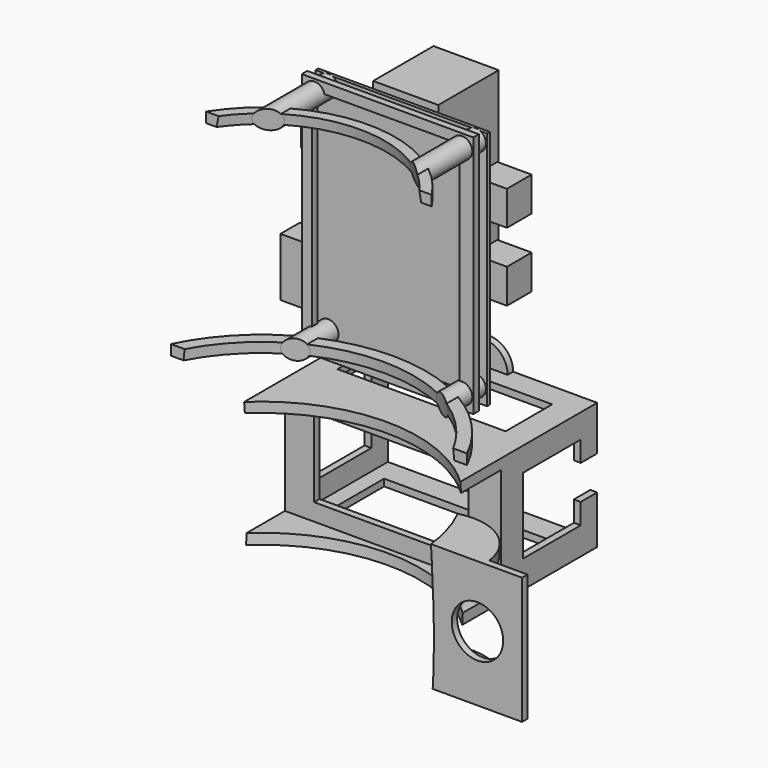
from build123d import *

# Parameters (mm, degrees)
BOX_W                     = 10
BOX_H                     = 9
BOX_DEPTH                 = 10
BOX001_W                  = 10
BOX001_H                  = 9
BOX001_DEPTH              = 10
BOX002_W                  = 10
BOX002_H                  = 9
BOX002_DEPTH              = 10
BOX003_W                  = 19
BOX003_H                  = 22
BOX003_DEPTH              = 45
BOX004_W                  = 38
BOX004_H                  = 7
BOX004_DEPTH              = 17
SKETCH003_W               = 50
SKETCH003_H               = 70
SKETCH003_R               = 0.9
PAD002_DEPTH              = 1
FUSION001_PLACEMENT_ANGLE = 180
PAD001_DEPTH              = 100
PAD_DEPTH                 = 100
BOX008_W                  = 63
BOX008_H                  = 52
BOX008_DEPTH              = 3
BOX007_W                  = 63
BOX007_H                  = 52
BOX007_DEPTH              = 3
CYLINDER004_R             = 1.1
CYLINDER004_DEPTH         = 2
CYLINDER003_W             = 7
CYLINDER003_H             = 2
CYLINDER003_ANGLE         = 180
CYLINDER002_R             = 1.1
CYLINDER002_DEPTH         = 2
CYLINDER001_W             = 7
CYLINDER001_H             = 2
CYLINDER001_ANGLE         = 180
BOX019_W                  = 10
BOX019_H                  = 10
BOX019_DEPTH              = 10
BOX018_W                  = 45
BOX018_H                  = 22
BOX018_DEPTH              = 23
BOX017_W                  = 68
BOX017_H                  = 21
BOX017_DEPTH              = 22
BOX016_W                  = 49
BOX016_H                  = 17
BOX016_DEPTH              = 41
BOX005_W                  = 59
BOX005_H                  = 33
BOX005_DEPTH              = 33
BOX006_W                  = 63
BOX006_H                  = 35
BOX006_DEPTH              = 37
CYLINDER006_W             = 16
CYLINDER006_H             = 3
CYLINDER006_ANGLE         = 150
CYLINDER005_R             = 7.5
CYLINDER005_DEPTH         = 2
BOX010_W                  = 28
BOX010_H                  = 2
BOX010_DEPTH              = 37
CYLINDER_W                = 16
CYLINDER_H                = 3
CYLINDER_ANGLE            = 150
CYLINDER009_R             = 0.9
CYLINDER009_DEPTH         = 15
CYLINDER010_R             = 3
CYLINDER010_DEPTH         = 33
CYLINDER013_R             = 0.9
CYLINDER013_DEPTH         = 10
CYLINDER014_R             = 3
CYLINDER014_DEPTH         = 33
CYLINDER011_R             = 0.9
CYLINDER011_DEPTH         = 10
CYLINDER012_R             = 3
CYLINDER012_DEPTH         = 33
CYLINDER016_R             = 3
CYLINDER016_DEPTH         = 33
CYLINDER017_R             = 3
CYLINDER017_DEPTH         = 33
CYLINDER018_R             = 3
CYLINDER018_DEPTH         = 33
CYLINDER015_R             = 3
CYLINDER015_DEPTH         = 33
BOX021_W                  = 43
BOX021_H                  = 2
BOX021_DEPTH              = 64
BOX020_W                  = 50
BOX020_H                  = 2
BOX020_DEPTH              = 71
BOX022_W                  = 115
BOX022_H                  = 70
BOX022_DEPTH              = 95
CYLINDER019_R             = 39
CYLINDER019_DEPTH         = 3
CYLINDER020_R             = 48
CYLINDER020_DEPTH         = 3
CYLINDER008_R             = 0.9
CYLINDER008_DEPTH         = 15
CYLINDER007_R             = 3
CYLINDER007_DEPTH         = 33


with BuildPart() as socket:
    # Box → Box (new body)
    with BuildSketch(Plane(origin=(-5, -10, -23), x_dir=(1, 0, 0), z_dir=(0, 0, 1))):
        with Locations((5, 4.5)):
            Rectangle(BOX_W, BOX_H)
    extrude(amount=BOX_DEPTH)


with BuildPart() as socket001:
    # Box001 → Box001 (new body)
    with BuildSketch(Plane(origin=(-5, -10, -43), x_dir=(1, 0, 0), z_dir=(0, 0, 1))):
        with Locations((5, 4.5)):
            Rectangle(BOX001_W, BOX001_H)
    extrude(amount=BOX001_DEPTH)


with BuildPart() as socket002:
    # Box002 → Box002 (new body)
    with BuildSketch(Plane(origin=(45, -10, -22), x_dir=(1, 0, 0), z_dir=(0, 0, 1))):
        with Locations((5, 4.5)):
            Rectangle(BOX002_W, BOX002_H)
    extrude(amount=BOX002_DEPTH)


with BuildPart() as arduino:
    # Box003 → Box003 (new body)
    with BuildSketch(Plane(origin=(15, -23, -43), x_dir=(1, 0, 0), z_dir=(0, 0, 1))):
        with Locations((9.5, 11)):
            Rectangle(BOX003_W, BOX003_H)
    extrude(amount=BOX003_DEPTH)


with BuildPart() as bluetooth:
    # Box004 → Box004 (new body)
    with BuildSketch(Plane(origin=(23, -8, -63), x_dir=(1, 0, 0), z_dir=(0, 0, 1))):
        with Locations((19, 3.5)):
            Rectangle(BOX004_W, BOX004_H)
    extrude(amount=BOX004_DEPTH)


with BuildPart() as board001:
    # Sketch003 → Pad002 (new body)
    with BuildSketch(Plane.XZ):
        with Locations((25, -35)):
            Rectangle(SKETCH003_W, SKETCH003_H)
        with Locations((3.27, -2.73)):
            Circle(SKETCH003_R, mode=Mode.SUBTRACT)
        with Locations((46.27, -2.73)):
            Circle(SKETCH003_R, mode=Mode.SUBTRACT)
        with Locations((3.27, -65.73)):
            Circle(SKETCH003_R, mode=Mode.SUBTRACT)
        with Locations((46.27, -65.73)):
            Circle(SKETCH003_R, mode=Mode.SUBTRACT)
    extrude(amount=PAD002_DEPTH)

    # Fusion001: union socket, socket001, socket002, arduino, bluetooth
    add(socket.part)
    add(socket001.part)
    add(socket002.part)
    add(arduino.part)
    add(bluetooth.part)


with BuildPart() as board001_1:
    # Fusion001 placement: moved
    add(board001.part.moved(Location((25, 51, 89))).rotate(Axis((25, 51, 89), (0, 0, 1)), FUSION001_PLACEMENT_ANGLE))


with BuildPart() as hole002:
    # Sketch002 → Pad001 (new body)
    with BuildSketch(Plane(origin=(0, 0, 164), x_dir=(1, 0, 0), z_dir=(0, -1, 0))):
        with BuildLine():
            Line((0, 0), (0, 26))
            ThreePointArc((0, 0), (6.982136, 13), (0, 26))
        make_face()
    pad001 = extrude(amount=-PAD001_DEPTH)

    # Mirrored001: Pad001 across Sketch002 V_Axis
    add(pad001.mirror(Plane(origin=(0, 0, 164), x_dir=(0, -1, 0), z_dir=(1, 0, 0))))


with BuildPart() as holes:
    # Sketch001 → Pad (new body)
    with BuildSketch(Plane(origin=(0, 0, 130), x_dir=(1, 0, 0), z_dir=(0, -1, 0))):
        with BuildLine():
            Line((0, 0), (0, 32))
            ThreePointArc((0, 0), (8.037381, 16), (0, 32))
        make_face()
    pad = extrude(amount=PAD_DEPTH)

    # Mirrored: Pad across Sketch001 V_Axis
    add(pad.mirror(Plane(origin=(0, 0, 130), x_dir=(0, -1, 0), z_dir=(1, 0, 0))))

    # Fusion: union hole002
    add(hole002.part)


with BuildPart() as spray:
    # Sketch → Revolution (revolve)
    with BuildSketch(Plane.XZ):
        with BuildLine():
            Line((0, 204), (0, 0))
            Line((0, 0), (28, 0))
            add(Edge.make_bspline(
                [(28, 204), (42.396766, 116.149766), (67.74257, 20.526831), (28, 0)],
                knots=[0, 0, 0, 0, 1, 1, 1, 1], degree=3, weights=[4.378374, 1, 1, 1]))
            Line((28, 204), (0, 204))
        make_face()
    revolve(axis=Axis((0, 0, 0), (0, 0, 1)))

    # Cut: cut holes
    add(holes.part, mode=Mode.SUBTRACT)


with BuildPart() as spray_1:
    # Cut placement: moved
    add(spray.part.moved(Location((0, 0, -70))))


with BuildPart() as bottom_holder:
    # Box008 → Box008 (new body)
    with BuildSketch(Plane(origin=(-31.5, -4, -28), x_dir=(1, 0, 0), z_dir=(0, 0, 1))):
        with Locations((31.5, 26)):
            Rectangle(BOX008_W, BOX008_H)
    extrude(amount=BOX008_DEPTH)

    # Cut006: cut spray
    add(spray_1.part, mode=Mode.SUBTRACT)


with BuildPart() as upper_holder:
    # Box007 → Box007 (new body)
    with BuildSketch(Plane(origin=(-31.5, -4, 6), x_dir=(1, 0, 0), z_dir=(0, 0, 1))):
        with Locations((31.5, 26)):
            Rectangle(BOX007_W, BOX007_H)
    extrude(amount=BOX007_DEPTH)

    # Cut005: cut spray
    add(spray_1.part, mode=Mode.SUBTRACT)


with BuildPart() as screw_hole001:
    # Cylinder004 → Cylinder004 (new body)
    with BuildSketch(Plane(origin=(0, 83, -30), x_dir=(1, 0, 0), z_dir=(0, -1, 0))):
        Circle(CYLINDER004_R)
    extrude(amount=CYLINDER004_DEPTH)


with BuildPart() as bottom_screw:
    # Cylinder003 → Cylinder003 (revolve)
    with BuildSketch(Plane(origin=(0, 81, -28), x_dir=(1, 0, 0), z_dir=(0, 0, 1))):
        with Locations((3.5, 1)):
            Rectangle(CYLINDER003_W, CYLINDER003_H)
    revolve(axis=Axis((0, 81, -28), (0, 1, 0)), revolution_arc=CYLINDER003_ANGLE)

    # Cut004: cut screw_hole001
    add(screw_hole001.part, mode=Mode.SUBTRACT)


with BuildPart() as screw_hole:
    # Cylinder002 → Cylinder002 (new body)
    with BuildSketch(Plane(origin=(0, 83, 11), x_dir=(1, 0, 0), z_dir=(0, -1, 0))):
        Circle(CYLINDER002_R)
    extrude(amount=CYLINDER002_DEPTH)


with BuildPart() as top_screw:
    # Cylinder001 → Cylinder001 (revolve)
    with BuildSketch(Plane(origin=(0, 83, 9), x_dir=(1, 0, 0), z_dir=(0, 0, -1))):
        with Locations((3.5, 1)):
            Rectangle(CYLINDER001_W, CYLINDER001_H)
    revolve(axis=Axis((0, 83, 9), (0, -1, 0)), revolution_arc=CYLINDER001_ANGLE)

    # Cut003: cut screw_hole
    add(screw_hole.part, mode=Mode.SUBTRACT)


with BuildPart() as wires_cut:
    # Box019 → Box019 (new body)
    with BuildSketch(Plane(origin=(25, 76, -14), x_dir=(1, 0, 0), z_dir=(0, 0, 1))):
        with Locations((5, 5)):
            Rectangle(BOX019_W, BOX019_H)
    extrude(amount=BOX019_DEPTH)


with BuildPart() as lighter002:
    # Box018 → Box018 (new body)
    with BuildSketch(Plane(origin=(-23, 37, -20), x_dir=(1, 0, 0), z_dir=(0, 0, 1))):
        with Locations((22.5, 11)):
            Rectangle(BOX018_W, BOX018_H)
    extrude(amount=BOX018_DEPTH)


with BuildPart() as lighter001:
    # Box017 → Box017 (new body)
    with BuildSketch(Plane(origin=(-34, 56, -20), x_dir=(1, 0, 0), z_dir=(0, 0, 1))):
        with Locations((34, 10.5)):
            Rectangle(BOX017_W, BOX017_H)
    extrude(amount=BOX017_DEPTH)


with BuildPart() as lighter:
    # Box016 → Box016 (new body)
    with BuildSketch(Plane(origin=(-25, 59, -31), x_dir=(1, 0, 0), z_dir=(0, 0, 1))):
        with Locations((24.5, 8.5)):
            Rectangle(BOX016_W, BOX016_H)
    extrude(amount=BOX016_DEPTH)


with BuildPart() as battery_block:
    # Box005 → Box005 (new body)
    with BuildSketch(Plane(origin=(-29.5, 50, -26), x_dir=(1, 0, 0), z_dir=(0, 0, 1))):
        with Locations((29.5, 16.5)):
            Rectangle(BOX005_W, BOX005_H)
    extrude(amount=BOX005_DEPTH)


with BuildPart() as obj1:
    # Box006 → Box006 (new body)
    with BuildSketch(Plane(origin=(-31.5, 48, -28), x_dir=(1, 0, 0), z_dir=(0, 0, 1))):
        with Locations((31.5, 17.5)):
            Rectangle(BOX006_W, BOX006_H)
    extrude(amount=BOX006_DEPTH)

    # Cut001: cut battery_block
    add(battery_block.part, mode=Mode.SUBTRACT)

    # Cut017: cut lighter
    add(lighter.part, mode=Mode.SUBTRACT)

    # Cut018: cut lighter001
    add(lighter001.part, mode=Mode.SUBTRACT)

    # Cut019: cut lighter002
    add(lighter002.part, mode=Mode.SUBTRACT)

    # Cut020: cut wires_cut
    add(wires_cut.part, mode=Mode.SUBTRACT)

    # Fusion002: union bottom_holder, upper_holder, bottom_screw, top_screw
    add(bottom_holder.part)
    add(upper_holder.part)
    add(bottom_screw.part)
    add(top_screw.part)


with BuildPart() as cut022:
    # Cylinder006 → Cylinder006 (revolve)
    with BuildSketch(Plane(origin=(45, 5, -28), x_dir=(1, 0, 0), z_dir=(0, -1, 0))):
        with Locations((8, 1.5)):
            Rectangle(CYLINDER006_W, CYLINDER006_H)
    revolve(axis=Axis((45, 5, -28), (0, 0, 1)), revolution_arc=CYLINDER006_ANGLE)

    # Cut022: cut spray
    add(spray_1.part, mode=Mode.SUBTRACT)


with BuildPart() as button_hole:
    # Cylinder005 → Cylinder005 (new body)
    with BuildSketch(Plane(origin=(59, 7, -9), x_dir=(1, 0, 0), z_dir=(0, -1, 0))):
        Circle(CYLINDER005_R)
    extrude(amount=CYLINDER005_DEPTH)


with BuildPart() as button_holder:
    # Box010 → Box010 (new body)
    with BuildSketch(Plane(origin=(44, 5, -28), x_dir=(1, 0, 0), z_dir=(0, 0, 1))):
        with Locations((14, 1)):
            Rectangle(BOX010_W, BOX010_H)
    extrude(amount=BOX010_DEPTH)

    # Cut008: cut spray
    add(spray_1.part, mode=Mode.SUBTRACT)

    # Cut009: cut button_hole
    add(button_hole.part, mode=Mode.SUBTRACT)


with BuildPart() as button_section:
    # Cylinder → Cylinder (revolve)
    with BuildSketch(Plane(origin=(45, 5, 6), x_dir=(1, 0, 0), z_dir=(0, -1, 0))):
        with Locations((8, 1.5)):
            Rectangle(CYLINDER_W, CYLINDER_H)
    revolve(axis=Axis((45, 5, 6), (0, 0, 1)), revolution_arc=CYLINDER_ANGLE)

    # Cut021: cut spray
    add(spray_1.part, mode=Mode.SUBTRACT)

    # Fusion003: union Cut022, button_holder
    add(cut022.part)
    add(button_holder.part)


with BuildPart() as board_hole001:
    # Cylinder009 → Cylinder009 (new body)
    with BuildSketch(Plane(origin=(21.72, 59, 86.27), x_dir=(1, 0, 0), z_dir=(0, -1, 0))):
        Circle(CYLINDER009_R)
    extrude(amount=CYLINDER009_DEPTH)


with BuildPart() as board_stand_with_hole001:
    # Cylinder010 → Cylinder010 (new body)
    with BuildSketch(Plane(origin=(21.7, 56, 86.3), x_dir=(1, 0, 0), z_dir=(0, -1, 0))):
        Circle(CYLINDER010_R)
    extrude(amount=CYLINDER010_DEPTH)

    # Cut026: cut board_hole001
    add(board_hole001.part, mode=Mode.SUBTRACT)


with BuildPart() as board_stand_with_hole001_1:
    # Cut026 placement: moved
    add(board_stand_with_hole001.part.moved(Location((-43, -5, 0))))

    # Cut029: cut spray
    add(spray_1.part, mode=Mode.SUBTRACT)


with BuildPart() as board_hole003:
    # Cylinder013 → Cylinder013 (new body)
    with BuildSketch(Plane(origin=(21.72, 59, 86.27), x_dir=(1, 0, 0), z_dir=(0, -1, 0))):
        Circle(CYLINDER013_R)
    extrude(amount=CYLINDER013_DEPTH)


with BuildPart() as board_stand_with_hole002:
    # Cylinder014 → Cylinder014 (new body)
    with BuildSketch(Plane(origin=(21.7, 56, 86.3), x_dir=(1, 0, 0), z_dir=(0, -1, 0))):
        Circle(CYLINDER014_R)
    extrude(amount=CYLINDER014_DEPTH)

    # Cut028: cut board_hole003
    add(board_hole003.part, mode=Mode.SUBTRACT)


with BuildPart() as board_stand_with_hole002_1:
    # Cut028 placement: moved
    add(board_stand_with_hole002.part.moved(Location((0, -5, -63))))

    # Cut030: cut spray
    add(spray_1.part, mode=Mode.SUBTRACT)


with BuildPart() as board_hole002:
    # Cylinder011 → Cylinder011 (new body)
    with BuildSketch(Plane(origin=(21.72, 59, 86.27), x_dir=(1, 0, 0), z_dir=(0, -1, 0))):
        Circle(CYLINDER011_R)
    extrude(amount=CYLINDER011_DEPTH)


with BuildPart() as board_stand_with_hole003:
    # Cylinder012 → Cylinder012 (new body)
    with BuildSketch(Plane(origin=(21.7, 56, 86.3), x_dir=(1, 0, 0), z_dir=(0, -1, 0))):
        Circle(CYLINDER012_R)
    extrude(amount=CYLINDER012_DEPTH)

    # Cut027: cut board_hole002
    add(board_hole002.part, mode=Mode.SUBTRACT)


with BuildPart() as board_stand_with_hole003_1:
    # Cut027 placement: moved
    add(board_stand_with_hole003.part.moved(Location((-43, -5, -63))))

    # Cut031: cut spray
    add(spray_1.part, mode=Mode.SUBTRACT)


with BuildPart() as board_stand005:
    # Cylinder016 → Cylinder016 (new body)
    with BuildSketch(Plane(origin=(-21.3, 56, 86.3), x_dir=(1, 0, 0), z_dir=(0, -1, 0))):
        Circle(CYLINDER016_R)
    extrude(amount=CYLINDER016_DEPTH)


with BuildPart() as board_stand006:
    # Cylinder017 → Cylinder017 (new body)
    with BuildSketch(Plane(origin=(-21.3, 56, 23.3), x_dir=(1, 0, 0), z_dir=(0, -1, 0))):
        Circle(CYLINDER017_R)
    extrude(amount=CYLINDER017_DEPTH)


with BuildPart() as board_stand007:
    # Cylinder018 → Cylinder018 (new body)
    with BuildSketch(Plane(origin=(21.7, 56, 23.3), x_dir=(1, 0, 0), z_dir=(0, -1, 0))):
        Circle(CYLINDER018_R)
    extrude(amount=CYLINDER018_DEPTH)


with BuildPart() as fusion004:
    # Cylinder015 → Cylinder015 (new body)
    with BuildSketch(Plane(origin=(21.7, 56, 86.3), x_dir=(1, 0, 0), z_dir=(0, -1, 0))):
        Circle(CYLINDER015_R)
    extrude(amount=CYLINDER015_DEPTH)

    # Fusion004: union board_stand005, board_stand006, board_stand007
    add(board_stand005.part)
    add(board_stand006.part)
    add(board_stand007.part)


with BuildPart() as obj2:
    # Box021 → Box021 (new body)
    with BuildSketch(Plane(origin=(-22, 46, 23), x_dir=(1, 0, 0), z_dir=(0, 0, 1))):
        with Locations((21.5, 1)):
            Rectangle(BOX021_W, BOX021_H)
    extrude(amount=BOX021_DEPTH)


with BuildPart() as obj3:
    # Box020 → Box020 (new body)
    with BuildSketch(Plane(origin=(-25, 46, 19), x_dir=(1, 0, 0), z_dir=(0, 0, 1))):
        with Locations((25, 1)):
            Rectangle(BOX020_W, BOX020_H)
    extrude(amount=BOX020_DEPTH)

    # Cut032: cut obj2
    add(obj2.part, mode=Mode.SUBTRACT)

    # Cut033: cut Fusion004
    add(fusion004.part, mode=Mode.SUBTRACT)


with BuildPart() as cropper:
    # Box022 → Box022 (new body)
    with BuildSketch(Plane(origin=(-54, -49, 0), x_dir=(1, 0, 0), z_dir=(0, 0, 1))):
        with Locations((57.5, 35)):
            Rectangle(BOX022_W, BOX022_H)
    extrude(amount=BOX022_DEPTH)


with BuildPart() as cut035:
    # Cylinder019 → Cylinder019 (new body)
    with BuildSketch(Plane.XY.offset(85)):
        Circle(CYLINDER019_R)
    extrude(amount=CYLINDER019_DEPTH)

    # Cut035: cut spray
    add(spray_1.part, mode=Mode.SUBTRACT)


with BuildPart() as board_connectors:
    # Cylinder020 → Cylinder020 (new body)
    with BuildSketch(Plane.XY.offset(22)):
        Circle(CYLINDER020_R)
    extrude(amount=CYLINDER020_DEPTH)

    # Cut034: cut spray
    add(spray_1.part, mode=Mode.SUBTRACT)

    # Fusion005: union Cut035
    add(cut035.part)

    # Cut036: cut cropper
    add(cropper.part, mode=Mode.SUBTRACT)


with BuildPart() as board_hole:
    # Cylinder008 → Cylinder008 (new body)
    with BuildSketch(Plane(origin=(21.72, 59, 86.27), x_dir=(1, 0, 0), z_dir=(0, -1, 0))):
        Circle(CYLINDER008_R)
    extrude(amount=CYLINDER008_DEPTH)


with BuildPart() as board_section:
    # Cylinder007 → Cylinder007 (new body)
    with BuildSketch(Plane(origin=(21.7, 56, 86.3), x_dir=(1, 0, 0), z_dir=(0, -1, 0))):
        Circle(CYLINDER007_R)
    extrude(amount=CYLINDER007_DEPTH)

    # Cut023: cut board_hole
    add(board_hole.part, mode=Mode.SUBTRACT)


with BuildPart() as board_section_1:
    # Cut023 placement: moved
    add(board_section.part.moved(Location((0, -5, 0))))

    # Cut024: cut spray
    add(spray_1.part, mode=Mode.SUBTRACT)

    # Fusion006: union board_stand_with_hole001, board_stand_with_hole002, board_stand_with_hole003, obj3, board_connectors
    add(board_stand_with_hole001_1.part)
    add(board_stand_with_hole002_1.part)
    add(board_stand_with_hole003_1.part)
    add(obj3.part)
    add(board_connectors.part)


solid = Compound([board001_1.part, obj1.part, button_section.part, board_section_1.part])
